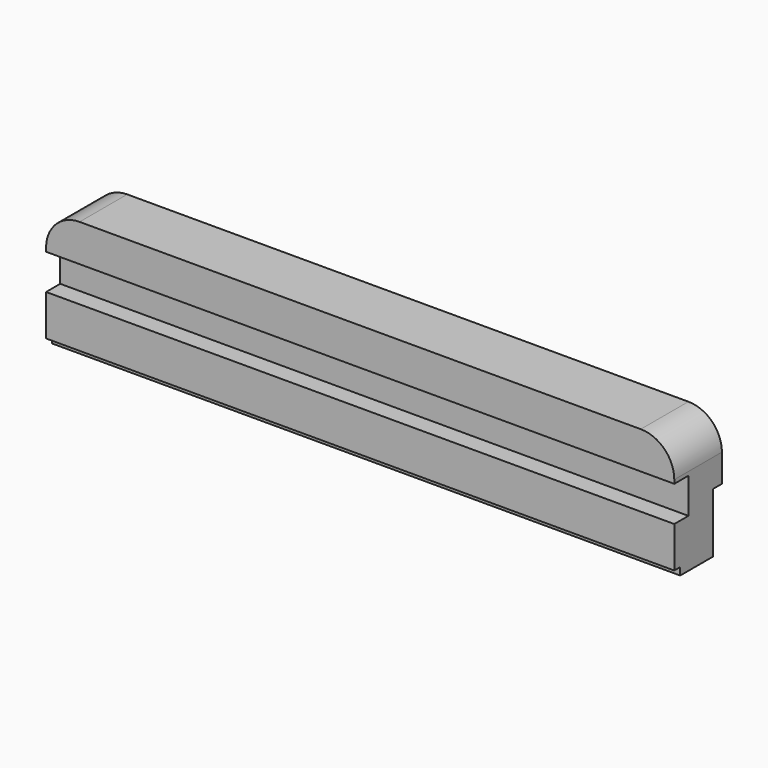
from build123d import *

# Parameters (mm, degrees)
PAD005_DEPTH            = 32
SKETCH013_W             = 337.5
SKETCH013_H             = 19
POCKET007_DEPTH         = 9.5
SKETCH014_W             = 337.5
SKETCH014_H             = 4
POCKET008_DEPTH         = 4
SKETCH015_W             = 337.5
SKETCH015_H             = 32
POCKET009_DEPTH         = 6
BODY004_PLACEMENT_ANGLE = 90


with BuildPart() as part:
    # Sketch012 → Pad005 (new body)
    with BuildSketch(Plane.XY):
        with BuildLine():
            Line((18, 65), (319.5, 65))
            ThreePointArc((337.5, 47), (332.227922, 59.727922), (319.5, 65))
            Line((337.5, 47), (337.5, 0))
            Line((337.5, 0), (0, 0))
            Line((0, 0), (0, 47))
            ThreePointArc((18, 65), (5.272078, 59.727922), (0, 47))
        make_face()
    extrude(amount=PAD005_DEPTH)

    # Sketch013 (on Face8 of Pad005) → Pocket007 (cut)
    with BuildSketch(Plane.XY.offset(32)):
        with Locations((168.75, 35.5)):
            Rectangle(SKETCH013_W, SKETCH013_H)
    extrude(amount=-POCKET007_DEPTH, mode=Mode.SUBTRACT)

    # Sketch014 (on Face4 of Pocket007) → Pocket008 (cut)
    with BuildSketch(Plane.XY.offset(32)):
        with Locations((168.75, 2)):
            Rectangle(SKETCH014_W, SKETCH014_H)
    extrude(amount=-POCKET008_DEPTH, mode=Mode.SUBTRACT)

    # Sketch015 (on Face2 of Pocket008) → Pocket009 (cut)
    with BuildSketch(Plane(origin=(0, 0, 0), x_dir=(1, 0, 0), z_dir=(0, 0, -1))):
        with Locations((168.75, -16)):
            Rectangle(SKETCH015_W, SKETCH015_H)
    extrude(amount=-POCKET009_DEPTH, mode=Mode.SUBTRACT)


with BuildPart() as part_1:
    # Body004 placement: moved
    add(part.part.moved(Location((22.5, 6, 0))).rotate(Axis((22.5, 6, 0), (1, 0, 0)), BODY004_PLACEMENT_ANGLE))


with BuildPart() as part_2:
    # Body006 placement: moved
    add(part_1.part.moved(Location((-382.5, 0, 0))))


solid = part_2.part
